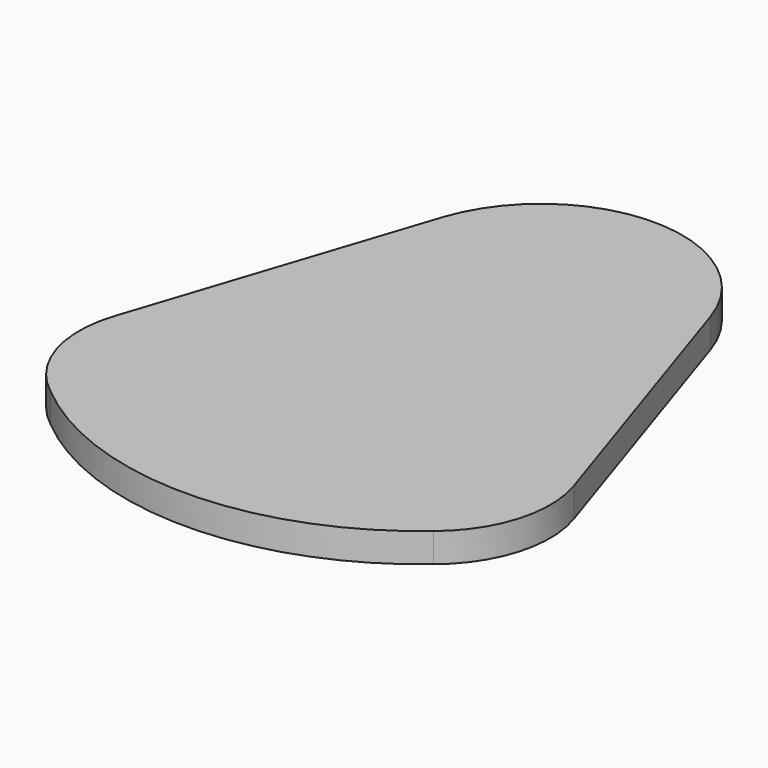
from build123d import *

# Parameters (mm, degrees)
F1_DEPTH = 1.55


with BuildPart() as f1:
    # F0 (on Top) → F1 (new body)
    with BuildSketch(Plane.XY):
        with BuildLine():
            Line((12.187048, -5.547063), (7.124458, 9.843524))
            ThreePointArc((7.124458, 9.843524), (0, 15), (-7.124458, 9.843524))
            Line((-7.124458, 9.843524), (-12.187048, -5.547063))
            ThreePointArc((-12.187048, -5.547063), (-12.223084, -9.339774), (-10.05935, -12.454932))
            ThreePointArc((-10.05935, -12.454932), (0.078671, -16.118763), (10.181386, -12.358673))
            ThreePointArc((10.181386, -12.358673), (12.245499, -9.26536), (12.187048, -5.547063))
        make_face()
    extrude(amount=F1_DEPTH)


solid = f1.part
